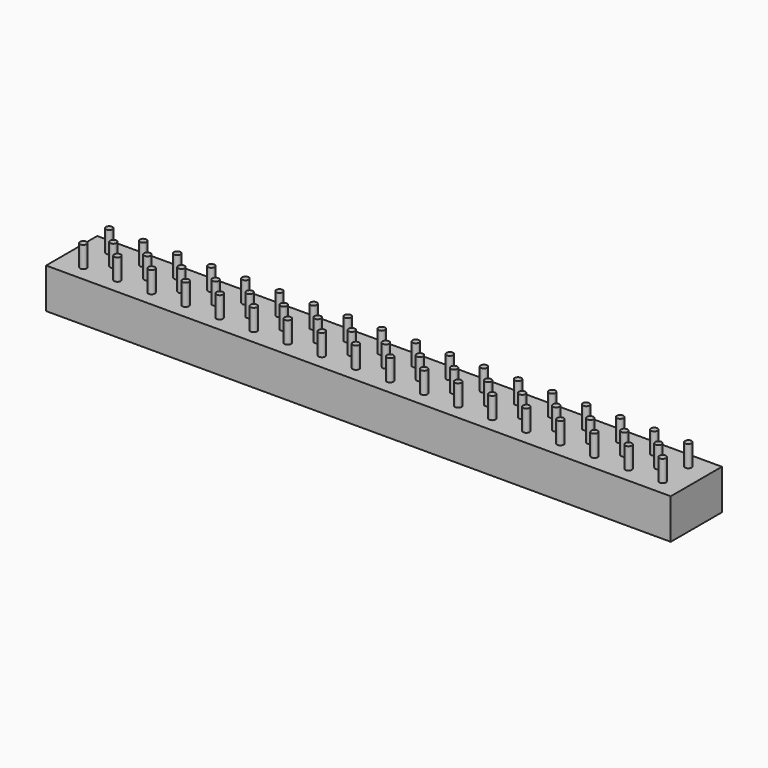
from build123d import *

# Parameters (mm, degrees)
F0_W     = 330
F0_H     = 33.8
F1_DEPTH = 21.2
F2_R     = 1.395
F3_DEPTH = 10
F4_R     = 1.75
F5_DEPTH = 11.3


with BuildPart() as f1:
    # F0 (on Top) → F1 (new body)
    with BuildSketch(Plane.XY):
        with Locations((95, 0)):
            Rectangle(F0_W, F0_H)
    extrude(amount=F1_DEPTH)

    # F2 (on face) → F3 (cut)
    with BuildSketch(Plane(origin=(0, 0, 0), x_dir=(1, 0, 0), z_dir=(0, 0, -1))):
        Circle(F2_R)
        with Locations((190, 0)):
            Circle(F2_R)
    extrude(amount=-F3_DEPTH, mode=Mode.SUBTRACT)

    # F4 (on face) → F5 (join)
    with BuildSketch(Plane.XY.offset(21.2)):
        with Locations((-57, 8.5)):
            Circle(F4_R)
        with Locations((-57, -8.5)):
            Circle(F4_R)
        with Locations((-48, 0)):
            Circle(F4_R)
        with Locations((-39, 8.5)):
            Circle(F4_R)
        with Locations((-39, -8.5)):
            Circle(F4_R)
        with Locations((-30, 0)):
            Circle(F4_R)
        with Locations((-21, 8.5)):
            Circle(F4_R)
        with Locations((-21, -8.5)):
            Circle(F4_R)
        with Locations((-12, 0)):
            Circle(F4_R)
        with Locations((-3, 8.5)):
            Circle(F4_R)
        with Locations((-3, -8.5)):
            Circle(F4_R)
        with Locations((6, 0)):
            Circle(F4_R)
        with Locations((15, 8.5)):
            Circle(F4_R)
        with Locations((15, -8.5)):
            Circle(F4_R)
        with Locations((24, 0)):
            Circle(F4_R)
        with Locations((33, 8.5)):
            Circle(F4_R)
        with Locations((33, -8.5)):
            Circle(F4_R)
        with Locations((42, 0)):
            Circle(F4_R)
        with Locations((51, 8.5)):
            Circle(F4_R)
        with Locations((51, -8.5)):
            Circle(F4_R)
        with Locations((60, 0)):
            Circle(F4_R)
        with Locations((69, 8.5)):
            Circle(F4_R)
        with Locations((69, -8.5)):
            Circle(F4_R)
        with Locations((78, 0)):
            Circle(F4_R)
        with Locations((87, 8.5)):
            Circle(F4_R)
        with Locations((87, -8.5)):
            Circle(F4_R)
        with Locations((96, 0)):
            Circle(F4_R)
        with Locations((105, 8.5)):
            Circle(F4_R)
        with Locations((105, -8.5)):
            Circle(F4_R)
        with Locations((114, 0)):
            Circle(F4_R)
        with Locations((123, 8.5)):
            Circle(F4_R)
        with Locations((123, -8.5)):
            Circle(F4_R)
        with Locations((132, 0)):
            Circle(F4_R)
        with Locations((141, 8.5)):
            Circle(F4_R)
        with Locations((141, -8.5)):
            Circle(F4_R)
        with Locations((150, 0)):
            Circle(F4_R)
        with Locations((159, 8.5)):
            Circle(F4_R)
        with Locations((159, -8.5)):
            Circle(F4_R)
        with Locations((168, 0)):
            Circle(F4_R)
        with Locations((177, 8.5)):
            Circle(F4_R)
        with Locations((177, -8.5)):
            Circle(F4_R)
        with Locations((186, 0)):
            Circle(F4_R)
        with Locations((195, 8.5)):
            Circle(F4_R)
        with Locations((195, -8.5)):
            Circle(F4_R)
        with Locations((204, 0)):
            Circle(F4_R)
        with Locations((213, 8.5)):
            Circle(F4_R)
        with Locations((213, -8.5)):
            Circle(F4_R)
        with Locations((222, 0)):
            Circle(F4_R)
        with Locations((231, 8.5)):
            Circle(F4_R)
        with Locations((231, -8.5)):
            Circle(F4_R)
        with Locations((240, 0)):
            Circle(F4_R)
        with Locations((249, 8.5)):
            Circle(F4_R)
        with Locations((249, -8.5)):
            Circle(F4_R)
    extrude(amount=F5_DEPTH)


solid = f1.part
